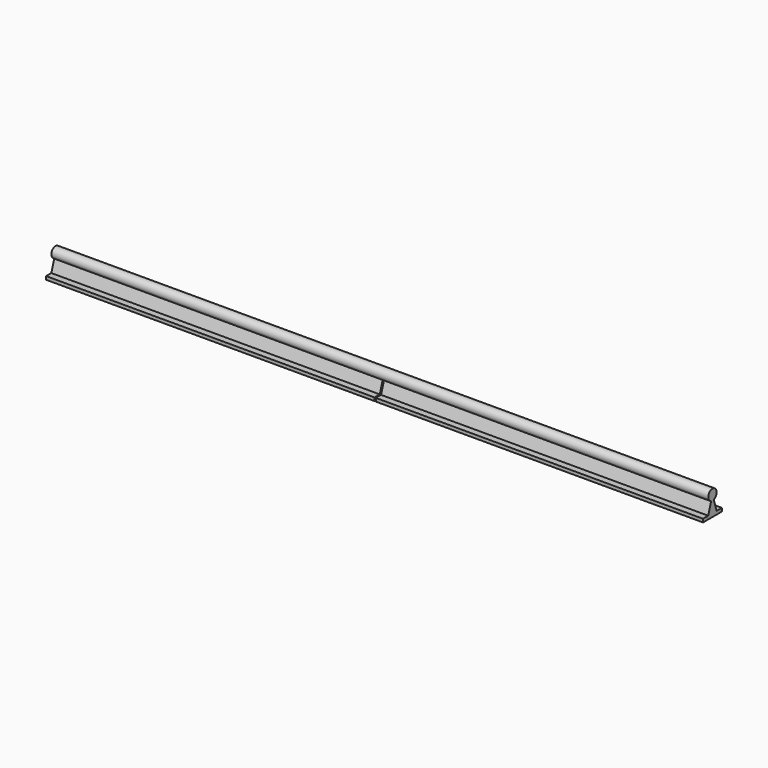
from build123d import *

# Parameters (mm, degrees)
F1_DEPTH = 500
F2_DEPTH = 2


with BuildPart() as f1:
    # F0 (on Right) → F1 (new body, symmetric)
    with BuildSketch(Plane.YZ):
        with BuildLine():
            ThreePointArc((2.4382058168, -7.6193931776), (6.461642459, -4.7166912908), (8, 0))
            ThreePointArc((8, 0), (-4.7166912908, 6.461642459), (-2.4382058168, -7.6193931776))
            Line((-2.4382058168, -7.6193931776), (0, 0))
            Line((0, 0), (2.4382058168, -7.6193931776))
        make_face()
        with BuildLine():
            Line((0, 0), (-2.4382058168, -7.6193931776))
            ThreePointArc((-2.4382058168, -7.6193931776), (0, -8), (2.4382058168, -7.6193931776))
            Line((2.4382058168, -7.6193931776), (0, 0))
        make_face()
        with BuildLine():
            ThreePointArc((2.4382058168, -7.6193931776), (0, -8), (-2.4382058168, -7.6193931776))
            Line((-2.4382058168, -7.6193931776), (-8, -25))
            Line((-8, -25), (0, -25))
            Line((0, -25), (8, -25))
            Line((8, -25), (2.4382058168, -7.6193931776))
        make_face()
        Polygon((0, -25), (-8, -25), (-18, -25), (-18, -30), (18, -30), (18, -25), (8, -25), align=None)
    extrude(amount=F1_DEPTH, both=True)

    # F0 (on Right) → F2 (cut)
    with BuildSketch(Plane.YZ):
        with BuildLine():
            ThreePointArc((2.4382058168, -7.6193931776), (0, -8), (-2.4382058168, -7.6193931776))
            Line((-2.4382058168, -7.6193931776), (-8, -25))
            Line((-8, -25), (0, -25))
            Line((0, -25), (8, -25))
            Line((8, -25), (2.4382058168, -7.6193931776))
        make_face()
        Polygon((0, -25), (-8, -25), (-18, -25), (-18, -30), (18, -30), (18, -25), (8, -25), align=None)
    extrude(amount=F2_DEPTH, mode=Mode.SUBTRACT)


solid = f1.part
